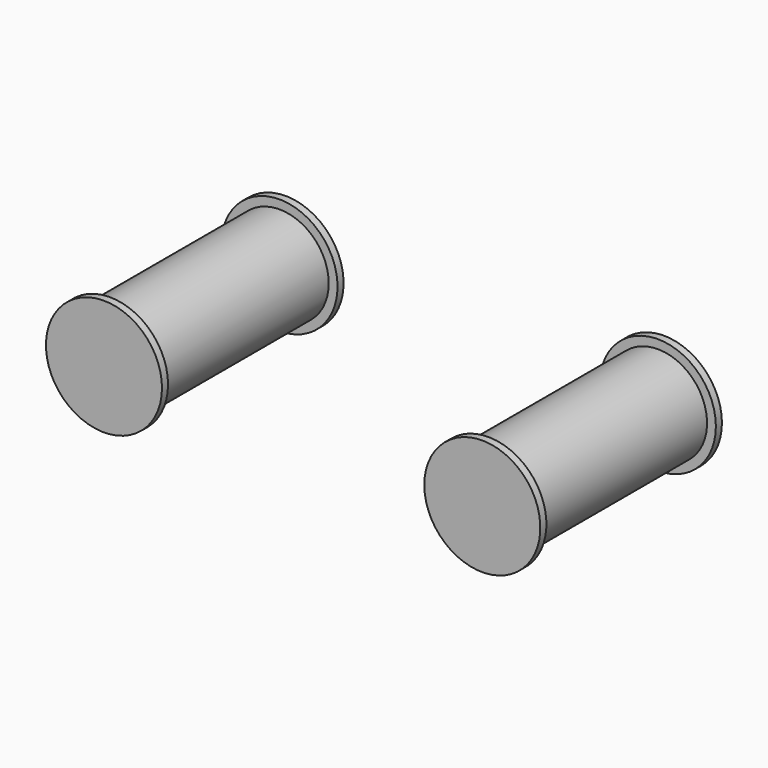
from build123d import *

# Parameters (mm, degrees)
F0_R     = 6.5
F1_DEPTH = 28
F2_R     = 7.665742
F4_DEPTH = 1
F3_R     = 7.6655
F5_DEPTH = 1


with BuildPart() as f1:
    # F0 (on Front) → F1 (new body)
    with BuildSketch(Plane.XZ):
        Circle(F0_R)
    extrude(amount=F1_DEPTH)

    # F2 (on face) → F4 (join)
    with BuildSketch(Plane.XZ.offset(28)):
        Circle(F2_R)
    extrude(amount=F4_DEPTH)

    # F3 (on face) → F5 (join)
    with BuildSketch(Plane(origin=(0, 0, 0), x_dir=(-1, 0, 0), z_dir=(0, 1, 0))):
        Circle(F3_R)
    extrude(amount=F5_DEPTH)


with BuildPart() as f7_1:
    # F7: instance of F1
    add(f1.part.mirror(Plane.YZ.offset(25)))


solid = Compound([f1.part, f7_1.part])
